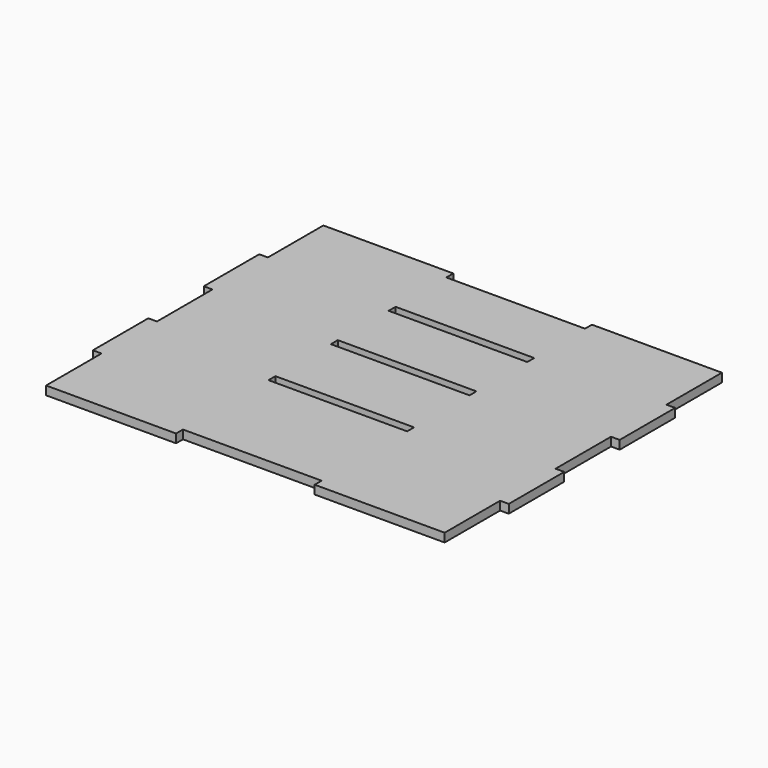
from build123d import *

# Parameters (mm, degrees)
F0_W     = 304.8
F0_H     = 19.05
F0_W_2   = 19.05
F0_H_2   = 152.4
F1_DEPTH = 19.05


with BuildPart() as f1:
    # F0 (on Top) → F1 (new body)
    with BuildSketch(Plane.XY):
        Polygon((-438.15, -228.6), (-438.15, -381), (-152.4, -381), (-152.4, -361.95), (152.4, -361.95), (152.4, -381), (438.15, -381), (438.15, -228.6), (438.15, -76.2), (438.15, 76.2), (438.15, 228.6), (438.15, 381), (152.4, 381), (152.4, 361.95), (-152.4, 361.95), (-152.4, 381), (-438.15, 381), (-438.15, 228.6), (-438.15, 76.2), (-438.15, -76.2), align=None)
        with Locations((0, -117.475)):
            Rectangle(F0_W, F0_H, mode=Mode.SUBTRACT)
        with Locations((0, 53.975)):
            Rectangle(F0_W, F0_H, mode=Mode.SUBTRACT)
        with Locations((0, 212.725)):
            Rectangle(F0_W, F0_H, mode=Mode.SUBTRACT)
        with Locations((-447.675, 152.4)):
            Rectangle(F0_W_2, F0_H_2)
        with Locations((-447.675, -152.4)):
            Rectangle(F0_W_2, F0_H_2)
        with Locations((447.675, 152.4)):
            Rectangle(F0_W_2, F0_H_2)
        with Locations((447.675, -152.4)):
            Rectangle(F0_W_2, F0_H_2)
    extrude(amount=F1_DEPTH)


solid = f1.part
